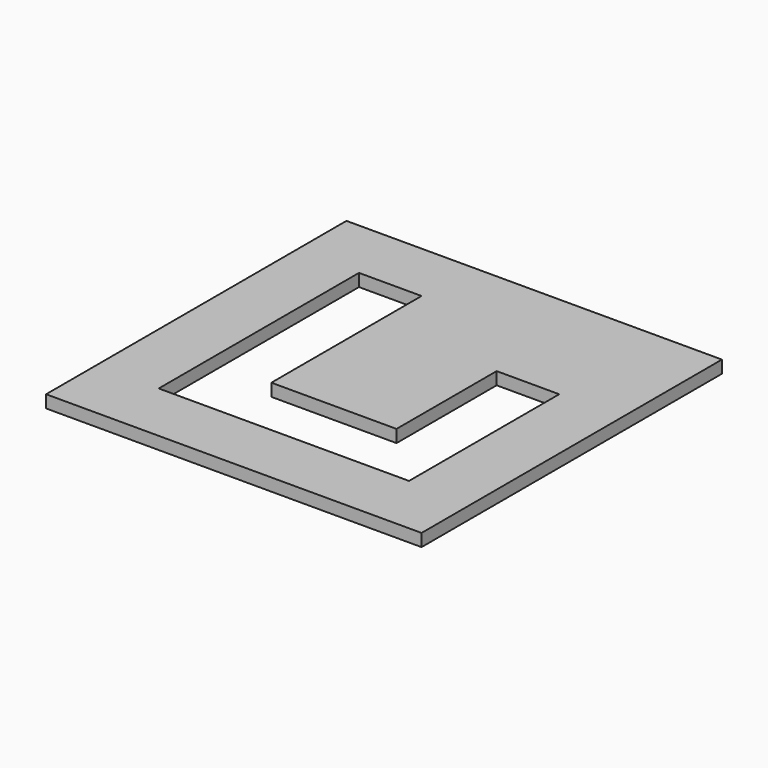
from build123d import *

# Parameters (mm, degrees)
SKETCH_W     = 90
SKETCH_H     = 90
PAD_DEPTH    = 3
POCKET_DEPTH = 3


with BuildPart() as part:
    # Sketch → Pad (new body)
    with BuildSketch(Plane.XY):
        with Locations((-45, 45)):
            Rectangle(SKETCH_W, SKETCH_H)
    extrude(amount=PAD_DEPTH)

    # Sketch001 (on Face6 of Pad) → Pocket (cut)
    with BuildSketch(Plane.XY.offset(3)):
        Polygon((-75, 75), (-75, 15), (-15, 15), (-15, 60), (-30, 60), (-30, 30), (-60, 30), (-60, 75), align=None)
    extrude(amount=-POCKET_DEPTH, mode=Mode.SUBTRACT)


solid = part.part
